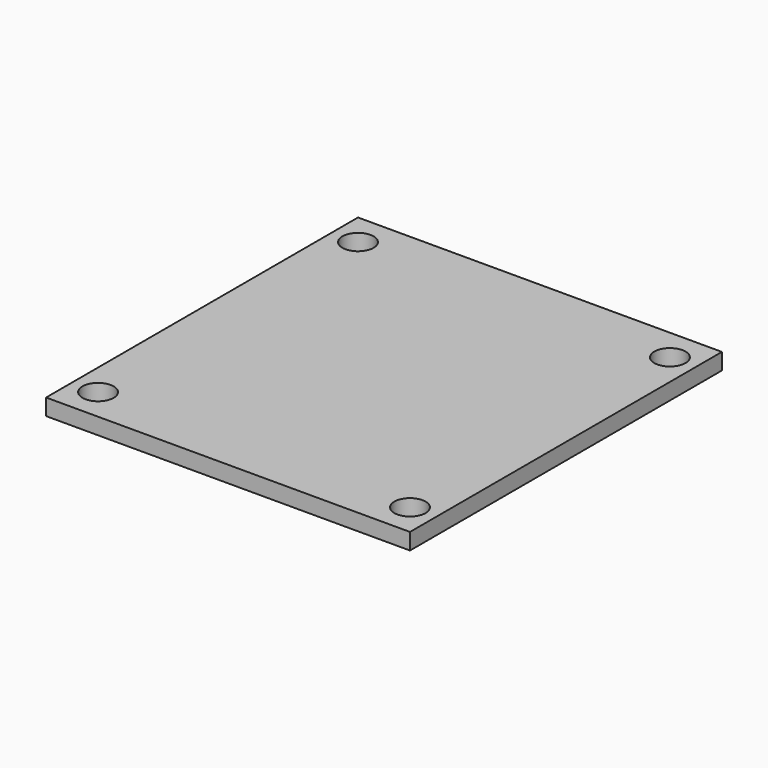
from build123d import *

# Parameters (mm, degrees)
SKETCH_W  = 35.56
SKETCH_H  = 38.1
SKETCH_R  = 1.524
PAD_DEPTH = 1.6


with BuildPart() as part:
    # Sketch → Pad (new body)
    with BuildSketch(Plane.XY):
        Rectangle(SKETCH_W, SKETCH_H)
        with Locations((-15.24, 15.875)):
            Circle(SKETCH_R, mode=Mode.SUBTRACT)
        with Locations((-15.24, -15.875)):
            Circle(SKETCH_R, mode=Mode.SUBTRACT)
        with Locations((15.24, -15.875)):
            Circle(SKETCH_R, mode=Mode.SUBTRACT)
        with Locations((15.24, 15.875)):
            Circle(SKETCH_R, mode=Mode.SUBTRACT)
    extrude(amount=PAD_DEPTH)


solid = part.part
